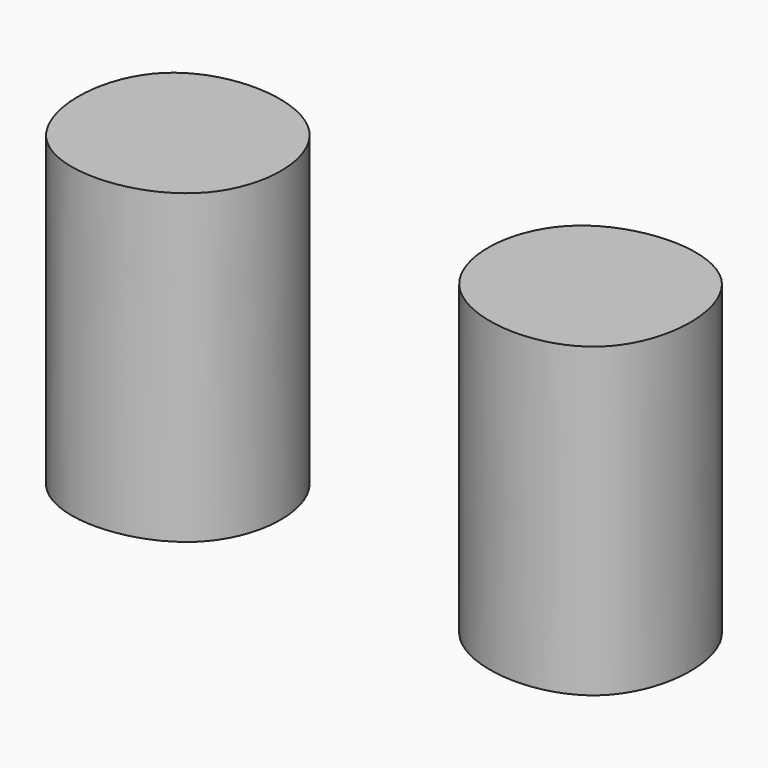
from build123d import *

# Parameters (mm, degrees)
F1_DEPTH = 77.978


with BuildPart() as f1:
    # F0 (on Top) → F1 (new body)
    with BuildSketch(Plane.XY):
        with BuildLine():
            add(Edge.make_bspline(
                [(-70.917956531, 68.2602822781), (-61.5740825881, 77.5418871055), (-24.2698588763, 75.898785722), (-23.9696135781, 24.5607846836), (-79.578857993, 20.4199450753), (-80.226528706, 59.0137439618), (-70.917956531, 68.2602822781)],
                knots=[0, 0, 0, 0, 0.2530775337, 0.4955994406, 0.7478786098, 1, 1, 1, 1], degree=3))
        make_face()
    extrude(amount=F1_DEPTH)


with BuildPart() as f2_1:
    # F2: instance of F1
    add(f1.part.mirror(Plane.YZ))


solid = Compound([f1.part, f2_1.part])
